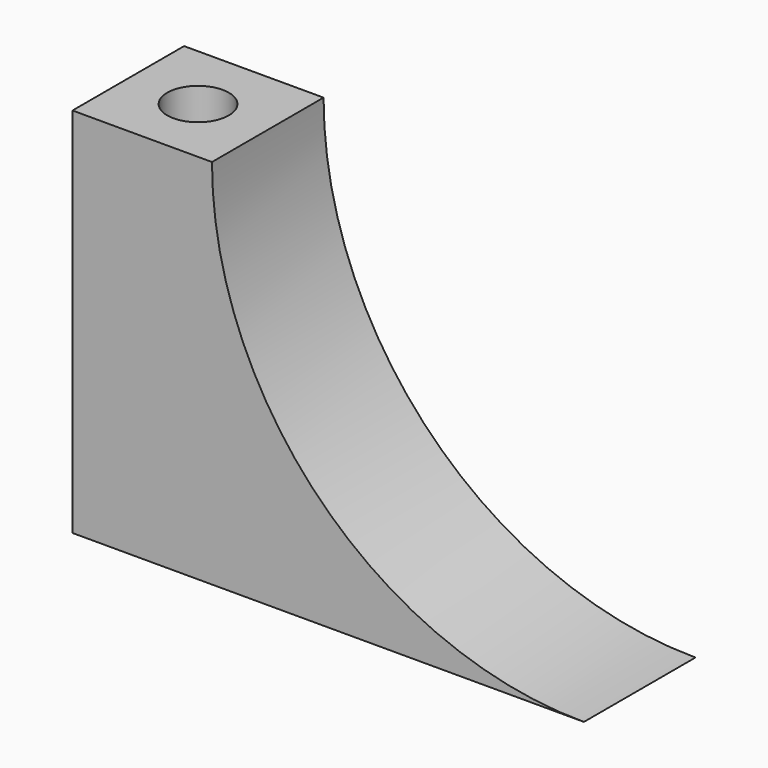
from build123d import *

# Parameters (mm, degrees)
F0_W     = 22
F0_H     = 6
F0_R     = 1.325
F1_DEPTH = 16
F2_R     = 16
F3_DEPTH = 5


with BuildPart() as f1:
    # F0 (on Top) → F1 (new body)
    with BuildSketch(Plane.XY):
        Rectangle(F0_W, F0_H)
        with Locations((-8, 0)):
            Circle(F0_R, mode=Mode.SUBTRACT)
    extrude(amount=F1_DEPTH)

    # F2 (on Front) → F3 (cut, symmetric)
    with BuildSketch(Plane.XZ):
        with Locations((11, 16)):
            Circle(F2_R)
    extrude(amount=F3_DEPTH, both=True, mode=Mode.SUBTRACT)


solid = f1.part
